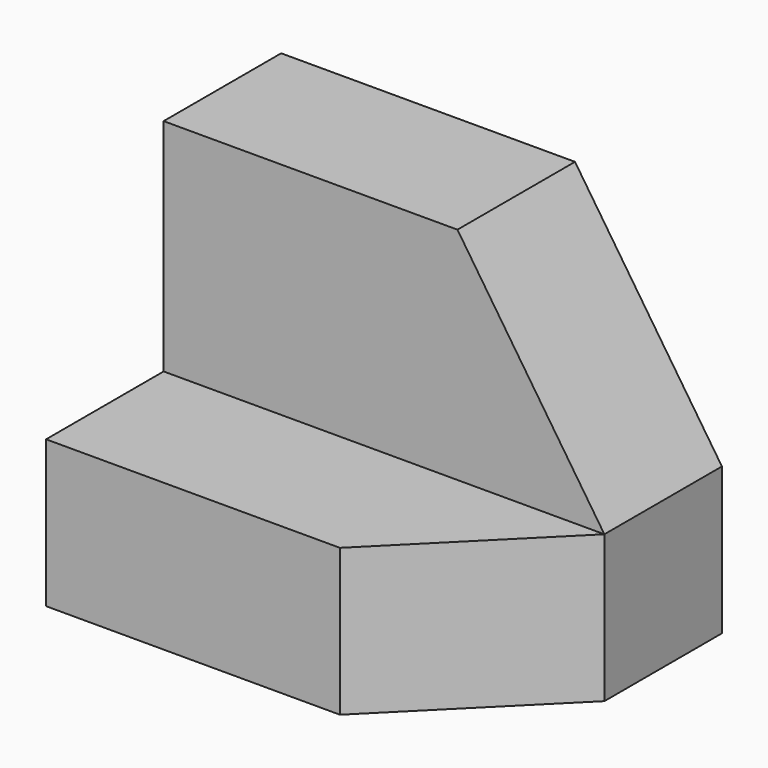
from build123d import *

# Parameters (mm, degrees)
F1_DEPTH = 38.1
F3_DEPTH = 12.701
F5_DEPTH = 12.701


with BuildPart() as f1:
    # F0 (on Right) → F1 (new body)
    with BuildSketch(Plane.YZ):
        Polygon((-25.1966, 49.253466), (-37.8966, 49.253466), (-37.8966, 30.203466), (-50.5966, 30.203466), (-50.5966, 17.503466), (-25.1966, 17.503466), align=None)
    extrude(amount=F1_DEPTH)

    # F2 (on face) → F3 (cut, through all)
    with BuildSketch(Plane.XZ.offset(37.8966)):
        Polygon((38.1, 49.253466), (25.4, 49.253466), (38.1, 30.203466), align=None)
    extrude(amount=-F3_DEPTH, mode=Mode.SUBTRACT)

    # F4 (on face) → F5 (cut, through all)
    with BuildSketch(Plane.XY.offset(30.203466)):
        Polygon((38.1, -50.5966), (38.1, -37.8966), (25.4, -50.5966), align=None)
    extrude(amount=-F5_DEPTH, mode=Mode.SUBTRACT)


solid = f1.part
